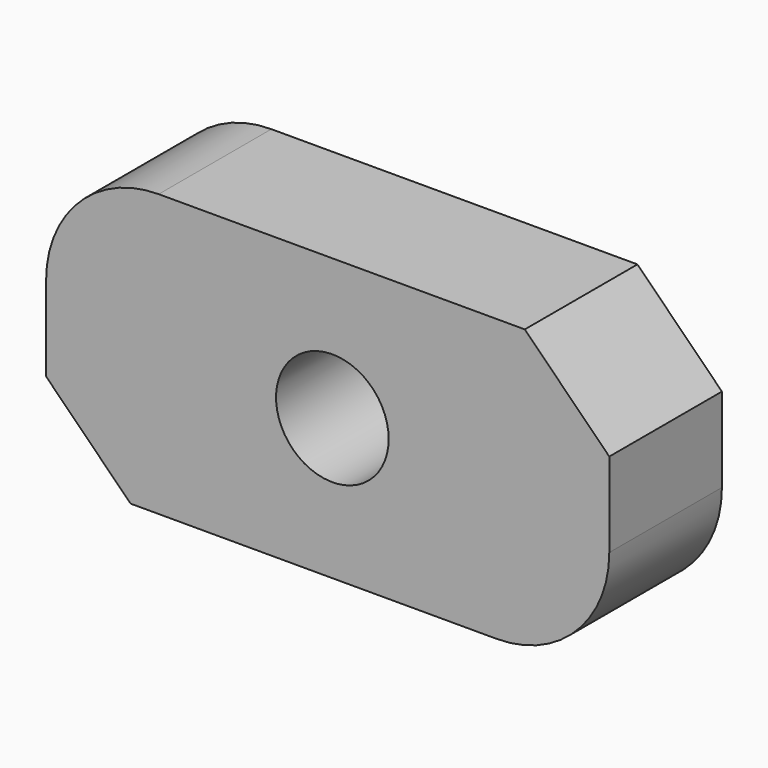
from build123d import *

# Parameters (mm, degrees)
F0_W     = 200
F0_H     = 100
F1_DEPTH = 50
F2_SIZE  = 30
F3_R     = 40
F4_R     = 20
F5_DEPTH = 50.001


with BuildPart() as f1:
    # F0 (on Front) → F1 (new body)
    with BuildSketch(Plane.XZ):
        Rectangle(F0_W, F0_H)
    extrude(amount=F1_DEPTH)

    # F2
    f2_edges = [f1.edges().sort_by_distance(p)[0] for p in [
        (-100, -25, -50),
        (100, -25, 50),
    ]]
    chamfer(f2_edges, length=F2_SIZE)

    # F3
    f3_edges = [f1.edges().sort_by_distance(p)[0] for p in [
        (-100, -25, 50),
        (100, -25, -50),
    ]]
    fillet(f3_edges, radius=F3_R)

    # F4 (on face) → F5 (cut, through all)
    with BuildSketch(Plane.XZ.offset(50)):
        with Locations((1.660392, 0)):
            Circle(F4_R)
    extrude(amount=-F5_DEPTH, mode=Mode.SUBTRACT)


solid = f1.part
